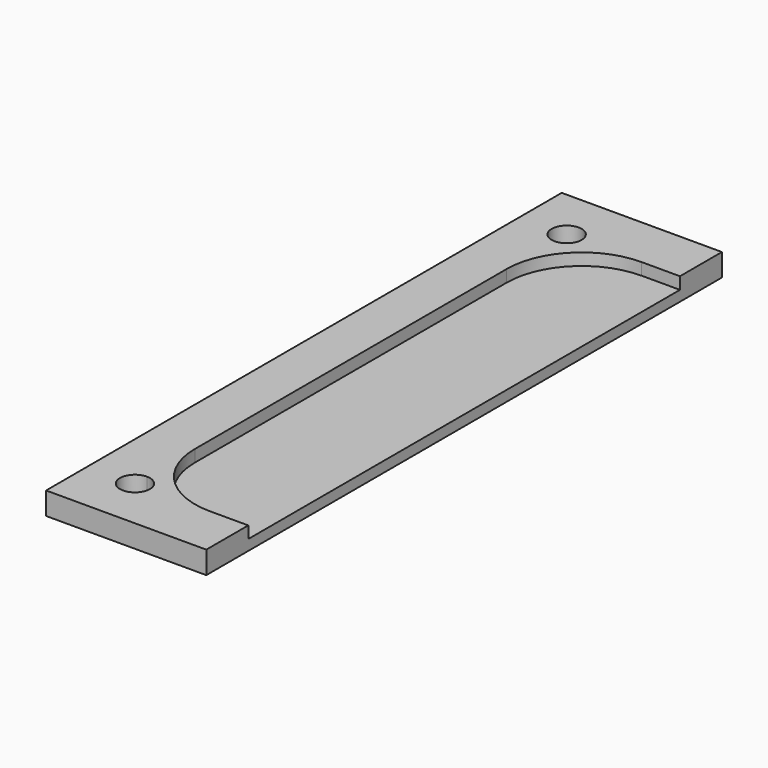
from build123d import *

# Parameters (mm, degrees)
F1_DEPTH = 3
F2_DEPTH = 1.4


with BuildPart() as f1:
    # F0 (on Top) → F1 (new body)
    with BuildSketch(Plane.XY):
        with BuildLine():
            Line((-76.5, 36), (-71.383327, 36))
            Line((-71.383327, 36), (-71.383327, 43))
            Line((-71.383327, 43), (-92.759609, 43))
            Line((-92.759609, 43), (-92.759609, -43))
            Line((-92.759609, -43), (-71.383327, -43))
            Line((-71.383327, -43), (-71.383327, -36))
            Line((-71.383327, -36), (-76.5, -36))
            Line((-76.5, -36), (-84.5, -36))
            ThreePointArc((-84.5, -36), (-87.914214, -37.414214), (-86.5, -34))
            Line((-86.5, -34), (-86.5, -26))
            Line((-86.5, -26), (-86.5, 26))
            Line((-86.5, 26), (-86.5, 34))
            ThreePointArc((-86.5, 34), (-87.914214, 37.414214), (-84.5, 36))
            Line((-84.5, 36), (-76.5, 36))
        make_face()
        with BuildLine():
            ThreePointArc((-86.5, 26), (-83.571068, 33.071068), (-76.5, 36))
            Line((-76.5, 36), (-84.5, 36))
            ThreePointArc((-84.5, 36), (-85.085786, 34.585786), (-86.5, 34))
            Line((-86.5, 34), (-86.5, 26))
        make_face()
        with BuildLine():
            Line((-84.5, -36), (-76.5, -36))
            ThreePointArc((-76.5, -36), (-83.571068, -33.071068), (-86.5, -26))
            Line((-86.5, -26), (-86.5, -34))
            ThreePointArc((-86.5, -34), (-85.085786, -34.585786), (-84.5, -36))
        make_face()
    extrude(amount=F1_DEPTH)

    # F0 (on Top) → F2 (join)
    with BuildSketch(Plane.XY):
        with BuildLine():
            Line((-71.383327, -36), (-71.383327, 36))
            Line((-71.383327, 36), (-76.5, 36))
            ThreePointArc((-76.5, 36), (-83.571068, 33.071068), (-86.5, 26))
            Line((-86.5, 26), (-86.5, -26))
            ThreePointArc((-86.5, -26), (-83.571068, -33.071068), (-76.5, -36))
            Line((-76.5, -36), (-71.383327, -36))
        make_face()
    extrude(amount=F2_DEPTH)


solid = f1.part
